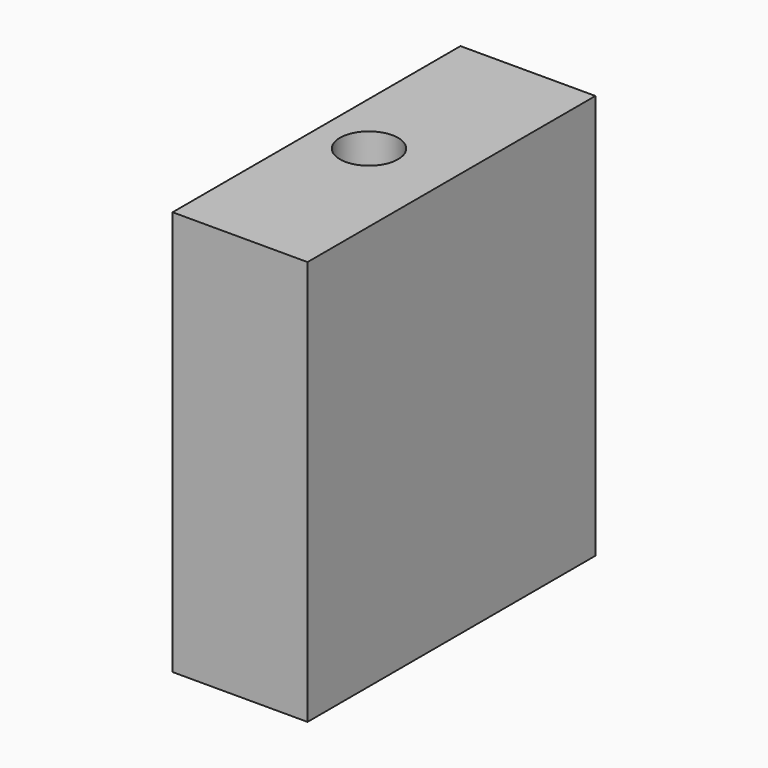
from build123d import *

# Parameters (mm, degrees)
CYLINDER002002001001001001001001008_R     = 0.97
CYLINDER002002001001001001001001008_DEPTH = 5
BOX006_W                                  = 4.5
BOX006_H                                  = 12
BOX006_DEPTH                              = 13.5


with BuildPart() as cylinder002002001001001001001001008:
    # Cylinder002002001001001001001001008 → Cylinder002002001001001001001001008 (new body)
    with BuildSketch(Plane(origin=(144.25, 12.8, 13.5), x_dir=(1, 0, 0), z_dir=(0, 0, 1))):
        Circle(CYLINDER002002001001001001001001008_R)
    extrude(amount=CYLINDER002002001001001001001001008_DEPTH)


with BuildPart() as cut013003021:
    # Box006 → Box006 (new body)
    with BuildSketch(Plane(origin=(142.5, 6.8, 5), x_dir=(1, 0, 0), z_dir=(0, 0, 1))):
        with Locations((2.25, 6)):
            Rectangle(BOX006_W, BOX006_H)
    extrude(amount=BOX006_DEPTH)

    # Cut013003021: cut Cylinder002002001001001001001001008
    add(cylinder002002001001001001001001008.part, mode=Mode.SUBTRACT)


solid = cut013003021.part
